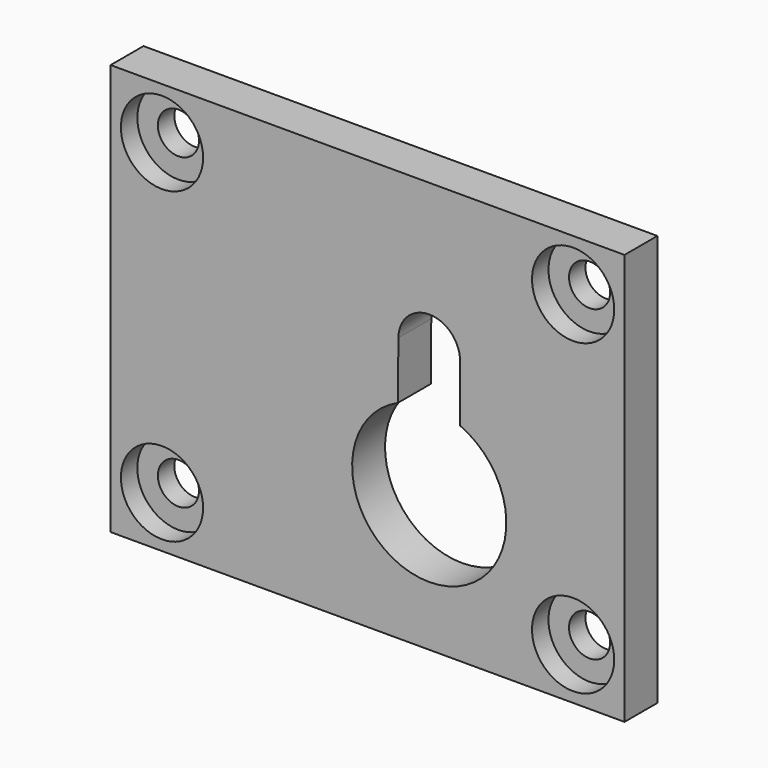
from build123d import *

# Parameters (mm, degrees)
F0_W     = 50
F0_H     = 40
F0_R     = 2
F1_DEPTH = 4
F2_R     = 4
F2_R_2   = 2
F3_DEPTH = 2
F5_DEPTH = 25


with BuildPart() as f1:
    # F0 (on Front) → F1 (new body)
    with BuildSketch(Plane.XZ):
        Rectangle(F0_W, F0_H)
        with Locations((-20, -15)):
            Circle(F0_R, mode=Mode.SUBTRACT)
        with Locations((20, -15)):
            Circle(F0_R, mode=Mode.SUBTRACT)
        with Locations((-20, 15)):
            Circle(F0_R, mode=Mode.SUBTRACT)
        with Locations((20, 15)):
            Circle(F0_R, mode=Mode.SUBTRACT)
    extrude(amount=F1_DEPTH)

    # F2 (on face) → F3 (cut)
    with BuildSketch(Plane.XZ.offset(4)):
        with Locations((-20, 15)):
            Circle(F2_R)
        with Locations((-20, 15)):
            Circle(F2_R_2, mode=Mode.SUBTRACT)
        with Locations((20, 15)):
            Circle(F2_R)
        with Locations((20, 15)):
            Circle(F2_R_2, mode=Mode.SUBTRACT)
        with Locations((20, -15)):
            Circle(F2_R)
        with Locations((20, -15)):
            Circle(F2_R_2, mode=Mode.SUBTRACT)
        with Locations((-20, -15)):
            Circle(F2_R)
        with Locations((-20, -15)):
            Circle(F2_R_2, mode=Mode.SUBTRACT)
    extrude(amount=-F3_DEPTH, mode=Mode.SUBTRACT)

    # F4 (on face) → F5 (cut)
    with BuildSketch(Plane.XZ.offset(4)):
        with BuildLine():
            Line((3.000102, 5.749591), (2.953973, 0.156237))
            ThreePointArc((2.953973, 0.156237), (6.025203, -14.197312), (8.999898, 0.176554))
            Line((8.999898, 0.176554), (8.999898, 5.70011))
            ThreePointArc((8.999898, 5.70011), (9, 5.724851), (8.999898, 5.749591))
            ThreePointArc((8.999898, 5.749591), (6, 8.724851), (3.000102, 5.749591))
        make_face()
    extrude(amount=-F5_DEPTH, mode=Mode.SUBTRACT)


solid = f1.part
